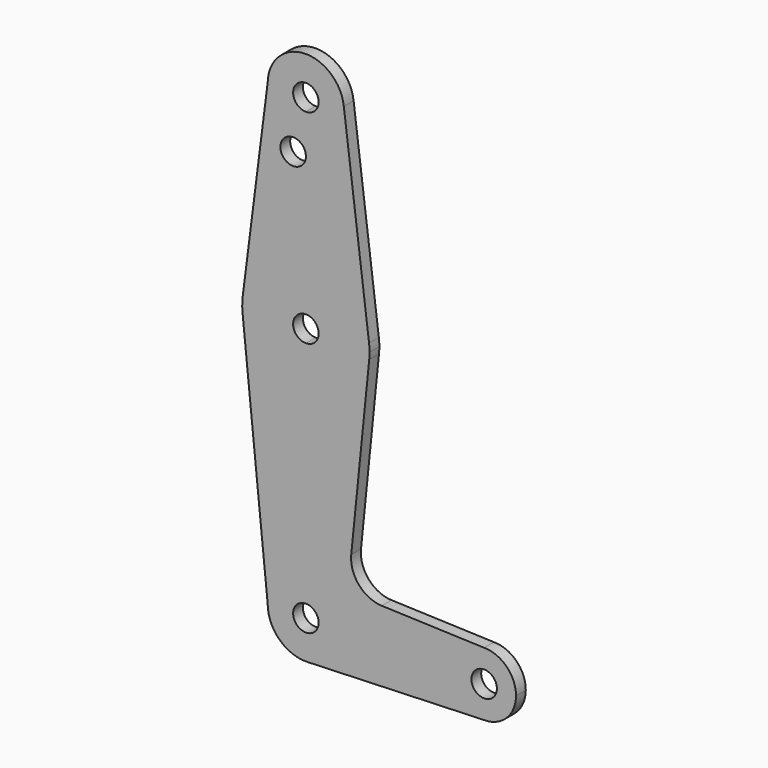
from build123d import *

# Parameters (mm, degrees)
F0_R     = 3.175
F1_DEPTH = 3.048


with BuildPart() as f1:
    # F0 (on Front) → F1 (new body)
    with BuildSketch(Plane.XZ):
        with BuildLine():
            Line((9.525, 0), (3.175, 0))
            ThreePointArc((3.175, 0), (-2.2450640303, -2.2450640303), (0, 3.175))
            Line((0, 3.175), (0, 9.525))
            ThreePointArc((0, 9.525), (-6.7351920908, 6.7351920908), (-9.525, 0))
            ThreePointArc((-9.525, 0), (-6.6131303135, -6.8550807768), (0.3421144266, -9.5188540654))
            ThreePointArc((0.3421144266, -9.5188540654), (6.8550807768, -6.6131303135), (9.525, 0))
        make_face()
        with BuildLine():
            ThreePointArc((0, 9.525), (6.7351920908, 6.7351920908), (9.525, 0))
            Line((9.525, 0), (36.5125, 0))
            ThreePointArc((36.5125, 0), (38.8373399243, 5.6126600757), (44.45, 7.9375))
            Line((44.45, 7.9375), (18.9322510366, 8.8523612883))
            ThreePointArc((18.9322510366, 8.8523612883), (13.2244578226, 11.5730964697), (11.3073615093, 17.5985462477))
            Line((11.3073615093, 17.5985462477), (15.7942028036, 61.9003804205))
            ThreePointArc((15.7942028036, 61.9003804205), (10.644756084, 51.722700101), (0, 47.625))
            Line((0, 47.625), (0, 9.525))
        make_face()
        with BuildLine():
            Line((36.5125, 0), (9.525, 0))
            ThreePointArc((9.525, 0), (6.8550807768, -6.6131303135), (0.3421144266, -9.5188540654))
            Line((0.3421144266, -9.5188540654), (44.3564309014, -7.9369484737))
            ThreePointArc((44.3564309014, -7.9369484737), (38.8043551754, -5.5794803311), (36.5125, 0))
        make_face()
        with BuildLine():
            ThreePointArc((-9.525, 0), (-6.7351920908, 6.7351920908), (0, 9.525))
            Line((0, 9.525), (0, 47.625))
            ThreePointArc((0, 47.625), (-10.644756084, 51.722700101), (-15.7942028036, 61.9003804205))
            Line((-15.7942028036, 61.9003804205), (-9.525, 0))
        make_face()
        with BuildLine():
            ThreePointArc((44.45, 7.9375), (38.8373399243, 5.6126600757), (36.5125, 0))
            ThreePointArc((36.5125, 0), (38.8043551754, -5.5794803311), (44.3564309014, -7.9369484737))
            ThreePointArc((44.3564309014, -7.9369484737), (50.0294803311, -5.6456448246), (52.3875, 0))
            ThreePointArc((52.3875, 0), (50.0626600757, 5.6126600757), (44.45, 7.9375))
        make_face()
        with BuildLine():
            ThreePointArc((47.625, 0), (44.45, -3.175), (41.275, 0))
            ThreePointArc((41.275, 0), (44.45, 3.175), (47.625, 0))
        make_face(mode=Mode.SUBTRACT)
        with BuildLine():
            ThreePointArc((-15.7942028036, 61.9003804205), (-10.644756084, 51.722700101), (0, 47.625))
            Line((0, 47.625), (0, 60.325))
            ThreePointArc((0, 60.325), (-3.175, 63.5), (0, 66.675))
            Line((0, 66.675), (0, 79.375))
            ThreePointArc((0, 79.375), (-10.4936910821, 75.4120977361), (-15.7482675631, 65.5019225163))
            ThreePointArc((-15.7482675631, 65.5019225163), (-15.873708942, 63.7024584521), (-15.7942028036, 61.9003804205))
        make_face()
        with BuildLine():
            Line((0, 60.325), (0, 47.625))
            ThreePointArc((0, 47.625), (10.644756084, 51.722700101), (15.7942028036, 61.9003804205))
            ThreePointArc((15.7942028036, 61.9003804205), (15.8547878338, 62.6991705884), (15.875, 63.5))
            ThreePointArc((15.875, 63.5), (15.8438375684, 64.4942012397), (15.7504726167, 65.4844992696))
            ThreePointArc((15.7504726167, 65.4844992696), (10.5002785462, 75.4062914231), (0, 79.375))
            Line((0, 79.375), (0, 66.675))
            ThreePointArc((0, 66.675), (2.2450640303, 65.7450640303), (3.175, 63.5))
            ThreePointArc((3.175, 63.5), (2.2450640303, 61.2549359697), (0, 60.325))
        make_face()
        with BuildLine():
            Line((-9.5234902896, 114.4695809672), (-15.7482675631, 65.5019225163))
            ThreePointArc((-15.7482675631, 65.5019225163), (-10.4936910821, 75.4120977361), (0, 79.375))
            Line((0, 79.375), (0, 101.3488918543))
            Line((0, 101.3488918543), (0, 104.775))
            ThreePointArc((0, 104.775), (-6.7948835057, 107.6250330979), (-9.5234902896, 114.4695809672))
        make_face()
        with Locations((-3.175, 101.3488918543)):
            Circle(F0_R, mode=Mode.SUBTRACT)
        with BuildLine():
            Line((0, 101.3488918543), (0, 79.375))
            ThreePointArc((0, 79.375), (10.5002785462, 75.4062914231), (15.7504726167, 65.4844992696))
            Line((15.7504726167, 65.4844992696), (9.4607692466, 115.4042962746))
            ThreePointArc((9.4607692466, 115.4042962746), (9.5089287534, 114.8530813348), (9.525, 114.3))
            ThreePointArc((9.525, 114.3), (6.7351920908, 107.5648079092), (0, 104.775))
            Line((0, 104.775), (0, 101.3488918543))
        make_face()
        with BuildLine():
            ThreePointArc((9.4607692466, 115.4042962746), (-0.4684086451, 123.8134756184), (-9.5234902896, 114.4695809672))
            ThreePointArc((-9.5234902896, 114.4695809672), (-6.7948835057, 107.6250330979), (0, 104.775))
            ThreePointArc((0, 104.775), (6.7351920908, 107.5648079092), (9.525, 114.3))
            ThreePointArc((9.525, 114.3), (9.5089287534, 114.8530813348), (9.4607692466, 115.4042962746))
        make_face()
        with BuildLine():
            ThreePointArc((3.175, 114.3), (2.2450640303, 112.0549359697), (0, 111.125))
            ThreePointArc((0, 111.125), (-2.2450640303, 116.5450640303), (3.175, 114.3))
        make_face(mode=Mode.SUBTRACT)
        with BuildLine():
            ThreePointArc((0, 3.175), (2.2450640303, 2.2450640303), (3.175, 0))
            Line((3.175, 0), (9.525, 0))
            ThreePointArc((9.525, 0), (6.7351920908, 6.7351920908), (0, 9.525))
            Line((0, 9.525), (0, 3.175))
        make_face()
    extrude(amount=F1_DEPTH)


solid = f1.part
